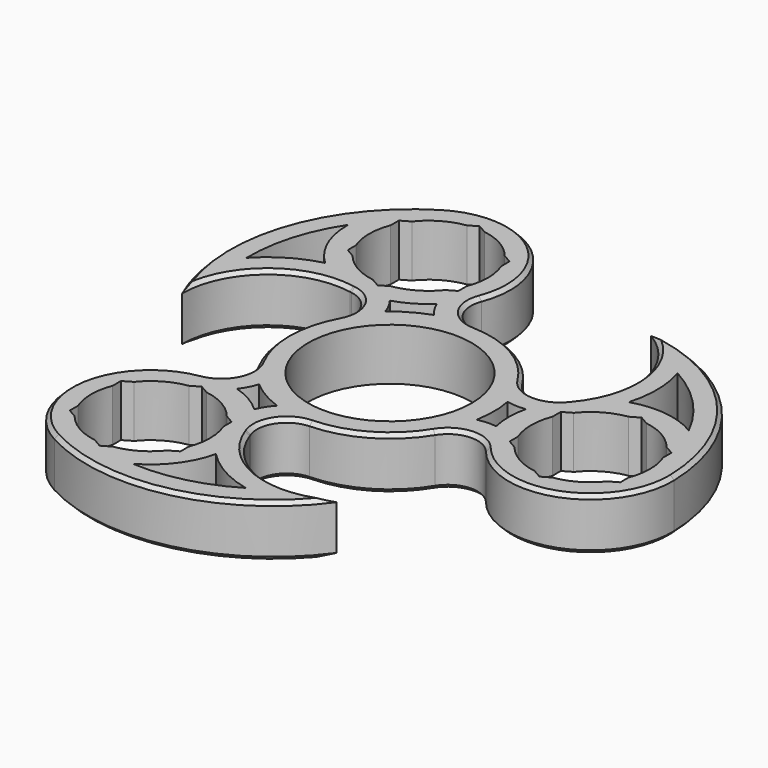
from build123d import *

# Parameters (mm, degrees)
F0_R     = 11
F1_DEPTH = 3.5
F2_SIZE  = 0.5


with BuildPart() as f1:
    # F0 (on Top) → F1 (new body, symmetric)
    with BuildSketch(Plane.XY):
        with BuildLine():
            ThreePointArc((11.925926, -7.332959), (15.076733, -5.436329), (18.444444, -6.913933))
            ThreePointArc((18.444444, -6.913933), (30.816134, -10.316837), (37.995407, 0.317847))
            ThreePointArc((37.995407, 0.317847), (31.325438, 16.607008), (15.574074, 24.463201))
            ThreePointArc((15.574074, 24.463201), (21.13692, 16.484222), (18.594526, 7.095633))
            Line((18.594526, 7.095633), (18.444444, 6.913933))
            ThreePointArc((18.444444, 6.913933), (15.076733, 5.436329), (11.925926, 7.332959))
            ThreePointArc((11.925926, 7.332959), (7, 12.124356), (0.387566, 13.994634))
            ThreePointArc((0.387566, 13.994634), (-2.830367, 15.774999), (-3.234581, 19.430324))
            ThreePointArc((-3.234581, 19.430324), (-6.473424, 31.845973), (-19.272967, 32.746064))
            ThreePointArc((-19.272967, 32.746064), (-30.04481, 18.825121), (-28.972791, 1.255943))
            ThreePointArc((-28.972791, 1.255943), (-24.844215, 10.062999), (-15.442262, 12.555515))
            Line((-15.442262, 12.555515), (-15.209864, 12.516391))
            ThreePointArc((-15.209864, 12.516391), (-12.246366, 10.338669), (-12.313492, 6.661675))
            ThreePointArc((-12.313492, 6.661675), (-14, 0), (-12.313492, -6.661675))
            ThreePointArc((-12.313492, -6.661675), (-12.246366, -10.338669), (-15.209864, -12.516391))
            ThreePointArc((-15.209864, -12.516391), (-24.34271, -21.529137), (-18.72244, -33.063911))
            ThreePointArc((-18.72244, -33.063911), (-1.280628, -35.432129), (13.398717, -25.719144))
            ThreePointArc((13.398717, -25.719144), (3.707295, -26.54722), (-3.152265, -19.651149))
            Line((-3.152265, -19.651149), (-3.234581, -19.430324))
            ThreePointArc((-3.234581, -19.430324), (-2.830367, -15.774999), (0.387566, -13.994634))
            ThreePointArc((0.387566, -13.994634), (7, -12.124356), (11.925926, -7.332959))
        make_face()
        with BuildLine():
            ThreePointArc((4.506224, -29.901566), (-1.608286, -32.426759), (-8.197052, -33.020048))
            ThreePointArc((-8.197052, -33.020048), (-4.712193, -29.998912), (-2.772209, -25.814661))
            ThreePointArc((-2.772209, -25.814661), (0.566556, -28.393192), (4.506224, -29.901566))
        make_face(mode=Mode.SUBTRACT)
        with BuildLine():
            ThreePointArc((-6.052182, -20.46207), (-5.639257, -21.896508), (-5.5, -23.382686))
            ThreePointArc((-5.5, -23.382686), (-5.639257, -24.868864), (-6.052182, -26.303302))
            Line((-6.052182, -26.303302), (-6.052182, -27.682686))
            Line((-6.052182, -27.682686), (-7.246763, -28.372378))
            ThreePointArc((-7.246763, -28.372378), (-9.5, -30.310889), (-12.305419, -31.292994))
            Line((-12.305419, -31.292994), (-13.5, -31.982686))
            Line((-13.5, -31.982686), (-14.694581, -31.292994))
            ThreePointArc((-14.694581, -31.292994), (-17.5, -30.310889), (-19.753237, -28.372378))
            Line((-19.753237, -28.372378), (-20.947818, -27.682686))
            Line((-20.947818, -27.682686), (-20.947818, -26.303302))
            ThreePointArc((-20.947818, -26.303302), (-21.5, -23.382686), (-20.947818, -20.46207))
            Line((-20.947818, -20.46207), (-20.947818, -19.082686))
            Line((-20.947818, -19.082686), (-19.753237, -18.392994))
            ThreePointArc((-19.753237, -18.392994), (-17.5, -16.454483), (-14.694581, -15.472378))
            Line((-14.694581, -15.472378), (-13.5, -14.782686))
            Line((-13.5, -14.782686), (-12.305419, -15.472378))
            ThreePointArc((-12.305419, -15.472378), (-9.5, -16.454483), (-7.246763, -18.392994))
            Line((-7.246763, -18.392994), (-6.052182, -19.082686))
            Line((-6.052182, -19.082686), (-6.052182, -20.46207))
        make_face(mode=Mode.SUBTRACT)
        with BuildLine():
            ThreePointArc((-10.302369, -12.857708), (-9.616709, -11.785993), (-9.136357, -10.607873))
            ThreePointArc((-9.136357, -10.607873), (-7, -12.124356), (-4.618509, -13.216254))
            ThreePointArc((-4.618509, -13.216254), (-5.398615, -14.221311), (-5.983917, -15.350968))
            ThreePointArc((-5.983917, -15.350968), (-8, -13.856406), (-10.302369, -12.857708))
        make_face(mode=Mode.SUBTRACT)
        Circle(F0_R, mode=Mode.SUBTRACT)
        with BuildLine():
            ThreePointArc((-5.983917, 15.350968), (-5.398615, 14.221311), (-4.618509, 13.216254))
            ThreePointArc((-4.618509, 13.216254), (-7, 12.124356), (-9.136357, 10.607873))
            ThreePointArc((-9.136357, 10.607873), (-9.616709, 11.785993), (-10.302369, 12.857708))
            ThreePointArc((-10.302369, 12.857708), (-8, 13.856406), (-5.983917, 15.350968))
        make_face(mode=Mode.SUBTRACT)
        with BuildLine():
            ThreePointArc((-28.148628, 11.048279), (-27.278254, 17.606196), (-24.497674, 23.608879))
            ThreePointArc((-24.497674, 23.608879), (-23.623724, 19.080335), (-20.970048, 15.308134))
            ThreePointArc((-20.970048, 15.308134), (-24.872504, 13.705944), (-28.148628, 11.048279))
        make_face(mode=Mode.SUBTRACT)
        with BuildLine():
            ThreePointArc((-6.052182, 26.303302), (-5.639257, 24.868864), (-5.5, 23.382686))
            ThreePointArc((-5.5, 23.382686), (-5.639257, 21.896508), (-6.052182, 20.46207))
            Line((-6.052182, 20.46207), (-6.052182, 19.082686))
            Line((-6.052182, 19.082686), (-7.246763, 18.392994))
            ThreePointArc((-7.246763, 18.392994), (-9.5, 16.454483), (-12.305419, 15.472378))
            Line((-12.305419, 15.472378), (-13.5, 14.782686))
            Line((-13.5, 14.782686), (-14.694581, 15.472378))
            ThreePointArc((-14.694581, 15.472378), (-17.5, 16.454483), (-19.753237, 18.392994))
            Line((-19.753237, 18.392994), (-20.947818, 19.082686))
            Line((-20.947818, 19.082686), (-20.947818, 20.46207))
            ThreePointArc((-20.947818, 20.46207), (-21.5, 23.382686), (-20.947818, 26.303302))
            Line((-20.947818, 26.303302), (-20.947818, 27.682686))
            Line((-20.947818, 27.682686), (-19.753237, 28.372378))
            ThreePointArc((-19.753237, 28.372378), (-17.5, 30.310889), (-14.694581, 31.292994))
            Line((-14.694581, 31.292994), (-13.5, 31.982686))
            Line((-13.5, 31.982686), (-12.305419, 31.292994))
            ThreePointArc((-12.305419, 31.292994), (-9.5, 30.310889), (-7.246763, 28.372378))
            Line((-7.246763, 28.372378), (-6.052182, 27.682686))
            Line((-6.052182, 27.682686), (-6.052182, 26.303302))
        make_face(mode=Mode.SUBTRACT)
        with BuildLine():
            ThreePointArc((16.286286, -2.493259), (15.015324, -2.435318), (13.754866, -2.608381))
            ThreePointArc((13.754866, -2.608381), (14, 0), (13.754866, 2.608381))
            ThreePointArc((13.754866, 2.608381), (15.015324, 2.435318), (16.286286, 2.493259))
            ThreePointArc((16.286286, 2.493259), (16, 0), (16.286286, -2.493259))
        make_face(mode=Mode.SUBTRACT)
        with BuildLine():
            ThreePointArc((34.447818, 2.920616), (34.860743, 1.486178), (35, 0))
            ThreePointArc((35, 0), (34.860743, -1.486178), (34.447818, -2.920616))
            Line((34.447818, -2.920616), (34.447818, -4.3))
            Line((34.447818, -4.3), (33.253237, -4.989692))
            ThreePointArc((33.253237, -4.989692), (31, -6.928203), (28.194581, -7.910308))
            Line((28.194581, -7.910308), (27, -8.6))
            Line((27, -8.6), (25.805419, -7.910308))
            ThreePointArc((25.805419, -7.910308), (23, -6.928203), (20.746763, -4.989692))
            Line((20.746763, -4.989692), (19.552182, -4.3))
            Line((19.552182, -4.3), (19.552182, -2.920616))
            ThreePointArc((19.552182, -2.920616), (19, 0), (19.552182, 2.920616))
            Line((19.552182, 2.920616), (19.552182, 4.3))
            Line((19.552182, 4.3), (20.746763, 4.989692))
            ThreePointArc((20.746763, 4.989692), (23, 6.928203), (25.805419, 7.910308))
            Line((25.805419, 7.910308), (27, 8.6))
            Line((27, 8.6), (28.194581, 7.910308))
            ThreePointArc((28.194581, 7.910308), (31, 6.928203), (33.253237, 4.989692))
            Line((33.253237, 4.989692), (34.447818, 4.3))
            Line((34.447818, 4.3), (34.447818, 2.920616))
        make_face(mode=Mode.SUBTRACT)
        with BuildLine():
            ThreePointArc((23.642404, 18.853287), (28.88654, 14.820563), (32.694726, 9.411169))
            ThreePointArc((32.694726, 9.411169), (28.335917, 10.918577), (23.742257, 10.506527))
            ThreePointArc((23.742257, 10.506527), (24.305948, 14.687248), (23.642404, 18.853287))
        make_face(mode=Mode.SUBTRACT)
    extrude(amount=F1_DEPTH, both=True)

    # F2
    f2_edges = [f1.edges().sort_by_distance(p)[0] for p in [
        (7, -12.124356, -3.5),
        (-24.34271, -21.529137, -3.5),
        (3.707295, -26.54722, -3.5),
        (-24.844215, 10.062999, -3.5),
        (-30.04481, 18.825121, -3.5),
        (21.13692, 16.484222, -3.5),
        (21.13692, 16.484222, 3.5),
        (7, 12.124356, 3.5),
        (31.325438, 16.607008, 3.5),
        (3.707295, -26.54722, 3.5),
        (-1.280628, -35.432129, 3.5),
        (-24.844215, 10.062999, 3.5),
    ]]
    chamfer(f2_edges, length=F2_SIZE)


solid = f1.part
